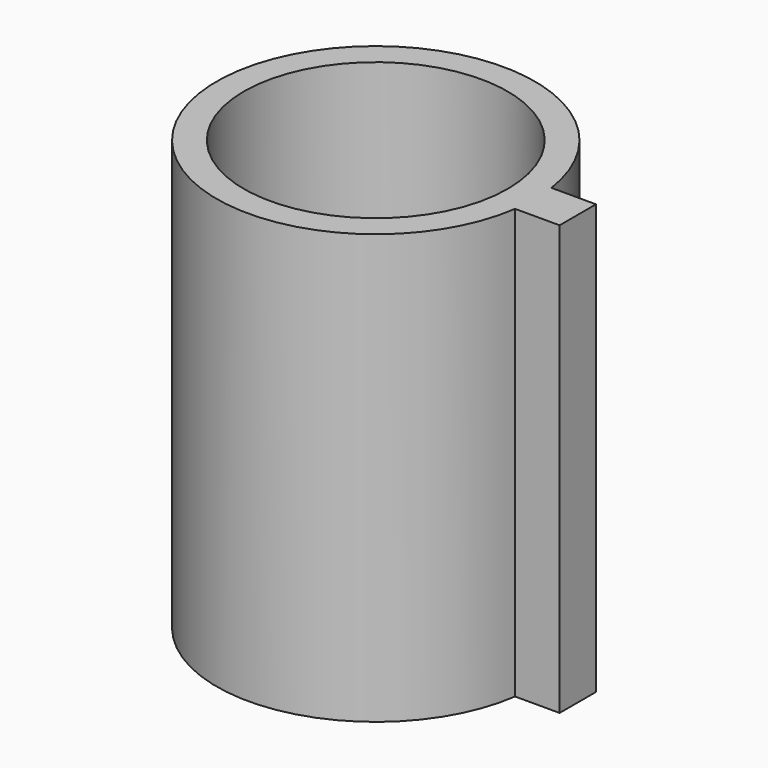
from build123d import *

# Parameters (mm, degrees)
BOX001_W          = 23
BOX001_H          = 6
BOX001_DEPTH      = 10
BOX002_W          = 6
BOX002_H          = 23
BOX002_DEPTH      = 10
CYLINDER001_R     = 10.45
CYLINDER001_DEPTH = 100
CYLINDER_R        = 12.6
CYLINDER_DEPTH    = 34
BOX_W             = 10
BOX_H             = 3.6
BOX_DEPTH         = 34


with BuildPart() as cube:
    # Box001 → Box001 (new body)
    with BuildSketch(Plane(origin=(-11.5, -3, 0), x_dir=(1, 0, 0), z_dir=(0, 0, 1))):
        with Locations((11.5, 3)):
            Rectangle(BOX001_W, BOX001_H)
    extrude(amount=BOX001_DEPTH)


with BuildPart() as cube001:
    # Box002 → Box002 (new body)
    with BuildSketch(Plane(origin=(-3, -11.5, 0), x_dir=(1, 0, 0), z_dir=(0, 0, 1))):
        with Locations((3, 11.5)):
            Rectangle(BOX002_W, BOX002_H)
    extrude(amount=BOX002_DEPTH)


with BuildPart() as cylinder:
    # Cylinder001 → Cylinder001 (new body)
    with BuildSketch(Plane.XY):
        Circle(CYLINDER001_R)
    extrude(amount=CYLINDER001_DEPTH)


with BuildPart() as outside:
    # Cylinder → Cylinder (new body)
    with BuildSketch(Plane.XY):
        Circle(CYLINDER_R)
    extrude(amount=CYLINDER_DEPTH)


with BuildPart() as final:
    # Box → Box (new body)
    with BuildSketch(Plane(origin=(6, -1.8, 0), x_dir=(1, 0, 0), z_dir=(0, 0, 1))):
        with Locations((5, 1.8)):
            Rectangle(BOX_W, BOX_H)
    extrude(amount=BOX_DEPTH)

    # Fusion: union Outside
    add(outside.part)

    # Cut: cut Cylinder
    add(cylinder.part, mode=Mode.SUBTRACT)

    # Cut001: cut Cube001
    add(cube001.part, mode=Mode.SUBTRACT)

    # Cut002: cut Cube
    add(cube.part, mode=Mode.SUBTRACT)


solid = final.part
